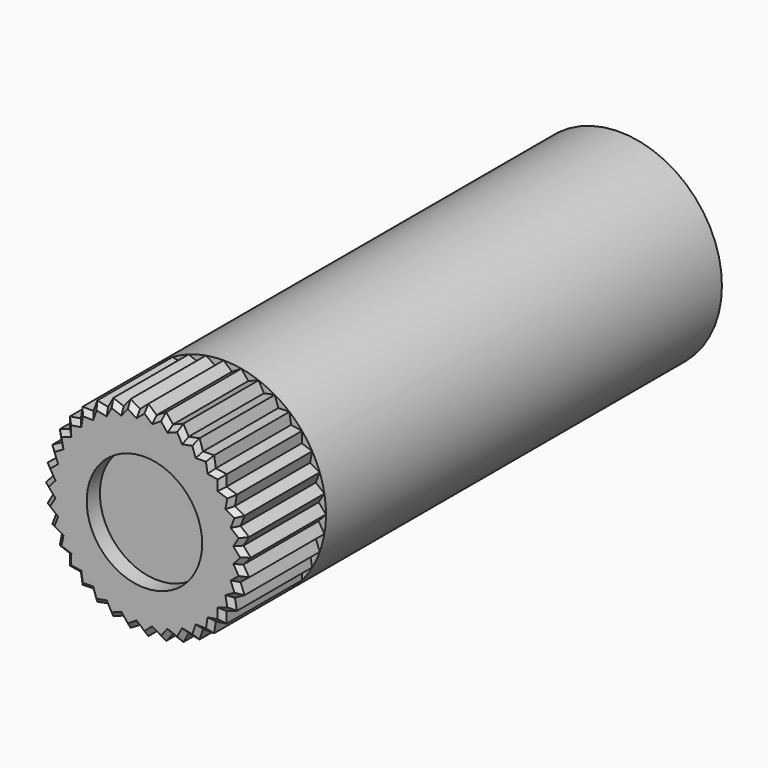
from build123d import *

# Parameters (mm, degrees)
F0_R     = 6.2
F1_DEPTH = 30
F3_DEPTH = 6
F4_SIZE  = 0.3
F5_R     = 3.5
F6_DEPTH = 1
F7_R     = 1.75
F8_DEPTH = 3


with BuildPart() as f1:
    # F0 (on Front) → F1 (new body)
    with BuildSketch(Plane.XZ):
        Circle(F0_R)
    extrude(amount=F1_DEPTH)

    # F2 (on face) → F3 (join)
    with BuildSketch(Plane.XZ.offset(30)):
        Polygon((5.761109, -0.504032), (6.2, 0), (5.761109, 0.504032), (6.105808, 1.076619), (5.586061, 1.496781), (5.826094, 2.120525), (5.241283, 2.44405), (5.369358, 3.1), (4.737251, 3.317059), (4.749476, 3.985283), (4.08928, 4.08928), (3.985283, 4.749476), (3.317059, 4.737251), (3.1, 5.369358), (2.44405, 5.241283), (2.120525, 5.826094), (1.496781, 5.586061), (1.076619, 6.105808), (0.504032, 5.761109), (0, 6.2), (-0.504032, 5.761109), (-1.076619, 6.105808), (-1.496781, 5.586061), (-2.120525, 5.826094), (-2.44405, 5.241283), (-3.1, 5.369358), (-3.317059, 4.737251), (-3.985283, 4.749476), (-4.08928, 4.08928), (-4.749476, 3.985283), (-4.737251, 3.317059), (-5.369358, 3.1), (-5.241283, 2.44405), (-5.826094, 2.120525), (-5.586061, 1.496781), (-6.105808, 1.076619), (-5.761109, 0.504032), (-6.2, 0), (-5.761109, -0.504032), (-6.105808, -1.076619), (-5.586061, -1.496781), (-5.826094, -2.120525), (-5.241283, -2.44405), (-5.369358, -3.1), (-4.737251, -3.317059), (-4.749476, -3.985283), (-4.08928, -4.08928), (-3.985283, -4.749476), (-3.317059, -4.737251), (-3.1, -5.369358), (-2.44405, -5.241283), (-2.120525, -5.826094), (-1.496781, -5.586061), (-1.076619, -6.105808), (-0.504032, -5.761109), (0, -6.2), (0.504032, -5.761109), (1.076619, -6.105808), (1.496781, -5.586061), (2.120525, -5.826094), (2.44405, -5.241283), (3.1, -5.369358), (3.317059, -4.737251), (3.985283, -4.749476), (4.08928, -4.08928), (4.749476, -3.985283), (4.737251, -3.317059), (5.369358, -3.1), (5.241283, -2.44405), (5.826094, -2.120525), (5.586061, -1.496781), (6.105808, -1.076619), align=None)
    extrude(amount=F3_DEPTH)

    # F4
    f4_edges = [f1.edges().sort_by_distance(p)[0] for p in [
        (3.651171, -36, -4.743363),
        (4.037282, -36, -4.419378),
        (4.419378, -36, -4.037282),
        (4.743363, -36, -3.651171),
        (5.053304, -36, -3.208529),
        (5.30532, -36, -2.772025),
        (5.533689, -36, -2.282288),
        (5.706078, -36, -1.808653),
        (5.845934, -36, -1.2867),
        (5.933459, -36, -0.790325),
        (5.980555, -36, -0.252016),
        (5.980555, -36, 0.252016),
        (5.933459, -36, 0.790325),
        (5.845934, -36, 1.2867),
        (5.706078, -36, 1.808653),
        (5.533689, -36, 2.282288),
        (5.30532, -36, 2.772025),
        (5.053304, -36, 3.208529),
        (4.743363, -36, 3.651171),
        (4.419378, -36, 4.037282),
        (4.037282, -36, 4.419378),
        (3.651171, -36, 4.743363),
        (3.208529, -36, 5.053304),
        (2.772025, -36, 5.30532),
        (2.282288, -36, 5.533689),
        (1.808653, -36, 5.706078),
        (1.2867, -36, 5.845934),
        (0.790325, -36, 5.933459),
        (0.252016, -36, 5.980555),
        (-0.252016, -36, 5.980555),
        (-0.790325, -36, 5.933459),
        (-1.2867, -36, 5.845934),
        (-1.808653, -36, 5.706078),
        (-2.282288, -36, 5.533689),
        (-2.772025, -36, 5.30532),
        (-3.208529, -36, 5.053304),
        (-3.651171, -36, 4.743363),
        (-4.037282, -36, 4.419378),
        (-4.419378, -36, 4.037282),
        (-4.743363, -36, 3.651171),
        (-5.053304, -36, 3.208529),
        (-5.30532, -36, 2.772025),
        (-5.533689, -36, 2.282288),
        (-5.706078, -36, 1.808653),
        (-5.845934, -36, 1.2867),
        (-5.933459, -36, 0.790325),
        (-5.980555, -36, 0.252016),
        (-5.980555, -36, -0.252016),
        (-5.933459, -36, -0.790325),
        (-5.845934, -36, -1.2867),
        (-5.706078, -36, -1.808653),
        (-5.533689, -36, -2.282288),
        (-5.30532, -36, -2.772025),
        (-5.053304, -36, -3.208529),
        (-4.743363, -36, -3.651171),
        (-4.419378, -36, -4.037282),
        (-4.037282, -36, -4.419378),
        (-3.651171, -36, -4.743363),
        (-3.208529, -36, -5.053304),
        (-2.772025, -36, -5.30532),
        (-2.282288, -36, -5.533689),
        (-1.808653, -36, -5.706078),
        (-1.2867, -36, -5.845934),
        (-0.790325, -36, -5.933459),
        (-0.252016, -36, -5.980555),
        (0.252016, -36, -5.980555),
        (0.790325, -36, -5.933459),
        (1.2867, -36, -5.845934),
        (1.808653, -36, -5.706078),
        (2.282288, -36, -5.533689),
        (2.772025, -36, -5.30532),
        (3.208529, -36, -5.053304),
    ]]
    chamfer(f4_edges, length=F4_SIZE)

    # F5 (on face) → F6 (cut)
    with BuildSketch(Plane.XZ.offset(36)):
        Circle(F5_R)
    extrude(amount=-F6_DEPTH, mode=Mode.SUBTRACT)

    # F7 (on face) → F8 (cut)
    with BuildSketch(Plane(origin=(0, 0, 0), x_dir=(-1, 0, 0), z_dir=(0, 1, 0))):
        Circle(F7_R)
    extrude(amount=-F8_DEPTH, mode=Mode.SUBTRACT)


solid = f1.part
